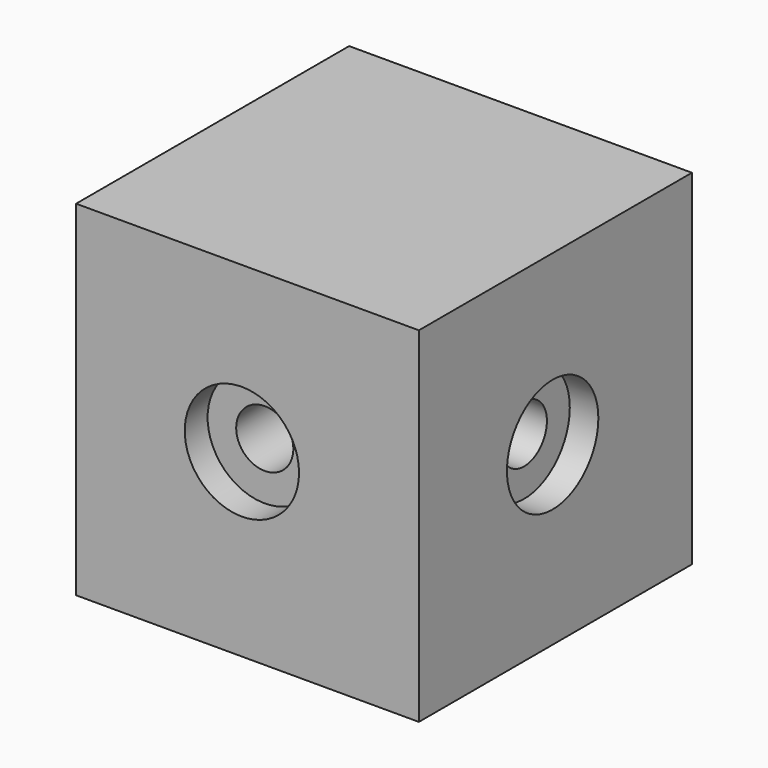
from build123d import *

# Parameters (mm, degrees)
F0_W           = 75.8636072278
F0_H           = 76.6314566135
F1_DEPTH       = 76.2
F3_D           = 12.7
F3_DEPTH       = 38.1
F3_CBORE_D     = 25.4
F3_CBORE_DEPTH = 6.35
F3_TIP         = 3.8154649308
F5_D           = 12.7
F5_DEPTH       = 38.1
F5_CBORE_D     = 25.4
F5_CBORE_DEPTH = 6.35
F5_TIP         = 3.8154649308


with BuildPart() as f1:
    # F0 (on Right) → F1 (new body)
    with BuildSketch(Plane.YZ):
        with Locations((-37.9318036139, 38.3157283068)):
            Rectangle(F0_W, F0_H)
    extrude(amount=F1_DEPTH)

    # F3
    with Locations(Plane.XZ.offset(75.8636072278)):
        with Locations((36.8568152189, 40.0817841291)):
            CounterBoreHole(F3_D / 2, F3_CBORE_D / 2, F3_CBORE_DEPTH, depth=F3_DEPTH)
            with Locations((0, 0, -(F3_DEPTH + F3_TIP / 2))):  # 118° drill point
                Cone(0, F3_D / 2, F3_TIP, mode=Mode.SUBTRACT)

    # F5
    with Locations(Plane.YZ.offset(76.2)):
        with Locations((-38.6996529996, 39.1603671014)):
            CounterBoreHole(F5_D / 2, F5_CBORE_D / 2, F5_CBORE_DEPTH, depth=F5_DEPTH)
            with Locations((0, 0, -(F5_DEPTH + F5_TIP / 2))):  # 118° drill point
                Cone(0, F5_D / 2, F5_TIP, mode=Mode.SUBTRACT)


solid = f1.part
